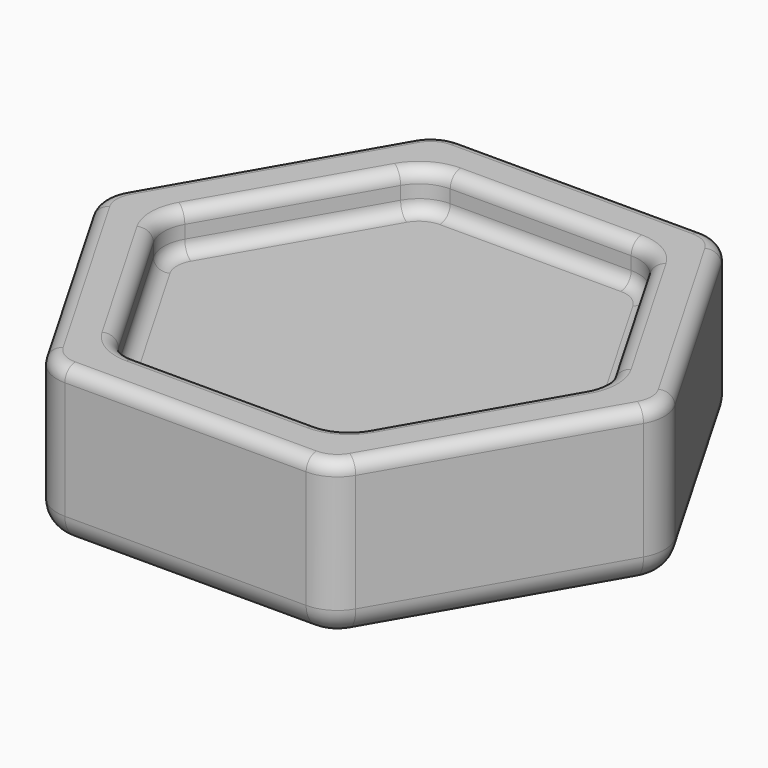
from build123d import *

# Parameters (mm, degrees)
F1_DEPTH = 12
F2_R     = 3
F3_R     = 2
F5_DEPTH = 3
F6_R     = 3
F7_R     = 1
F8_R     = 1


with BuildPart() as f1:
    # F0 (on Top) → F1 (new body)
    with BuildSketch(Plane.XY):
        Polygon((10.9696551146, 19), (-10.9696551146, 19), (-21.9393102292, 0), (-10.9696551146, -19), (10.9696551146, -19), (21.9393102292, 0), align=None)
    extrude(amount=F1_DEPTH)

    # F2
    f2_edges = [f1.edges().sort_by_distance(p)[0] for p in [
        (-10.969655, -19, 6),
        (10.969655, -19, 6),
        (21.93931, 0, 6),
        (-21.93931, 0, 6),
        (-10.969655, 19, 6),
        (10.969655, 19, 6),
    ]]
    fillet(f2_edges, radius=F2_R)

    # F3
    f3_edges = [f1.edges().sort_by_distance(p)[0] for p in [
        (16.454483, 9.5, 0),
        (21.475209, 0, 0),
        (10.737604, 18.598076, 0),
        (16.454483, -9.5, 0),
        (0, 19, 0),
        (10.737604, -18.598076, 0),
        (-10.737604, 18.598076, 0),
        (0, -19, 0),
        (-16.454483, 9.5, 0),
        (-10.737604, -18.598076, 0),
        (-21.475209, 0, 0),
        (-16.454483, -9.5, 0),
    ]]
    fillet(f3_edges, radius=F3_R)

    # F4 (on face) → F5 (cut)
    with BuildSketch(Plane.XY.offset(12)):
        Polygon((8.6602540378, 15), (-8.6602540378, 15), (-17.3205080757, 0), (-8.6602540378, -15), (8.6602540378, -15), (17.3205080757, 0), align=None)
    extrude(amount=-F5_DEPTH, mode=Mode.SUBTRACT)

    # F6
    f6_edges = [f1.edges().sort_by_distance(p)[0] for p in [
        (-8.660254, 15, 10.5),
        (8.660254, 15, 10.5),
        (17.320508, 0, 10.5),
        (-17.320508, 0, 10.5),
        (-8.660254, -15, 10.5),
        (8.660254, -15, 10.5),
    ]]
    fillet(f6_edges, radius=F6_R)

    # F7
    f7_edges = [f1.edges().sort_by_distance(p)[0] for p in [
        (0, 15, 12),
        (8.428203, 14.598076, 12),
        (-8.428203, 14.598076, 12),
        (12.990381, 7.5, 12),
        (-12.990381, 7.5, 12),
        (16.856406, 0, 12),
        (-16.856406, 0, 12),
        (12.990381, -7.5, 12),
        (-12.990381, -7.5, 12),
        (8.428203, -14.598076, 12),
        (-8.428203, -14.598076, 12),
        (0, -15, 12),
        (16.454483, 9.5, 12),
        (21.475209, 0, 12),
        (10.737604, 18.598076, 12),
        (16.454483, -9.5, 12),
        (0, 19, 12),
        (10.737604, -18.598076, 12),
        (-10.737604, 18.598076, 12),
        (0, -19, 12),
        (-16.454483, 9.5, 12),
        (-10.737604, -18.598076, 12),
        (-21.475209, 0, 12),
        (-16.454483, -9.5, 12),
    ]]
    fillet(f7_edges, radius=F7_R)

    # F8
    f8_edges = [f1.edges().sort_by_distance(p)[0] for p in [
        (0, 15, 9),
        (8.428203, 14.598076, 9),
        (-8.428203, 14.598076, 9),
        (12.990381, 7.5, 9),
        (-12.990381, 7.5, 9),
        (16.856406, 0, 9),
        (-16.856406, 0, 9),
        (12.990381, -7.5, 9),
        (-12.990381, -7.5, 9),
        (8.428203, -14.598076, 9),
        (-8.428203, -14.598076, 9),
        (0, -15, 9),
    ]]
    fillet(f8_edges, radius=F8_R)


solid = f1.part
